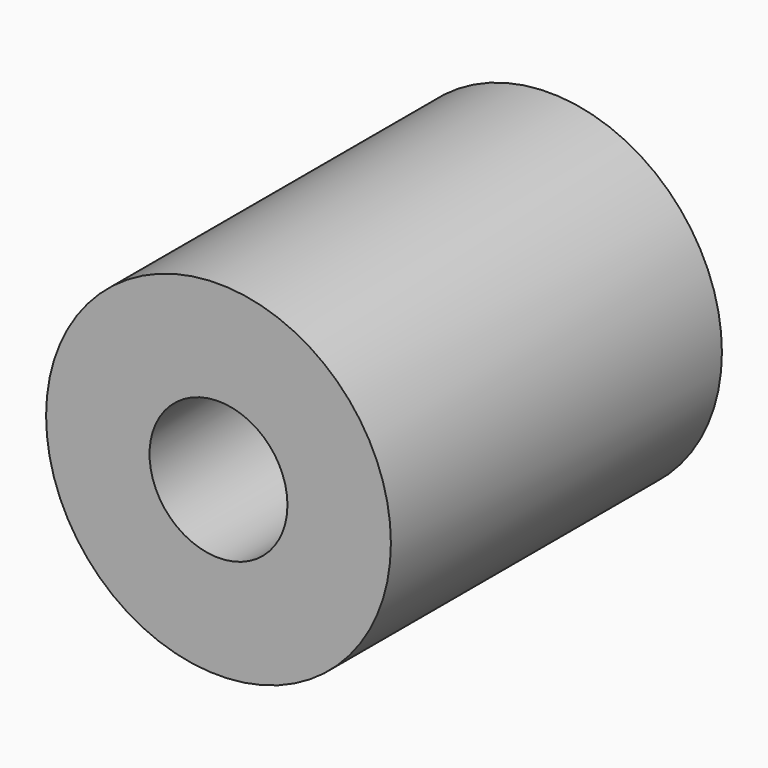
from build123d import *

# Parameters (mm, degrees)
SKETCH_R        = 12.5
PAD_DEPTH       = 30
SKETCH001_R     = 5
POCKET_DEPTH    = 10
SKETCH002_R     = 4
POCKET001_DEPTH = 10


with BuildPart() as part:
    # Sketch → Pad (new body)
    with BuildSketch(Plane.XZ):
        Circle(SKETCH_R)
    extrude(amount=PAD_DEPTH)

    # Sketch001 (on Face3 of Pad) → Pocket (cut)
    with BuildSketch(Plane.XZ.offset(30)):
        Circle(SKETCH001_R)
    extrude(amount=-POCKET_DEPTH, mode=Mode.SUBTRACT)

    # Sketch002 (on Face2 of Pocket) → Pocket001 (cut)
    with BuildSketch(Plane(origin=(0, 0, 0), x_dir=(1, 0, 0), z_dir=(0, 1, 0))):
        Circle(SKETCH002_R)
    extrude(amount=-POCKET001_DEPTH, mode=Mode.SUBTRACT)


solid = part.part
